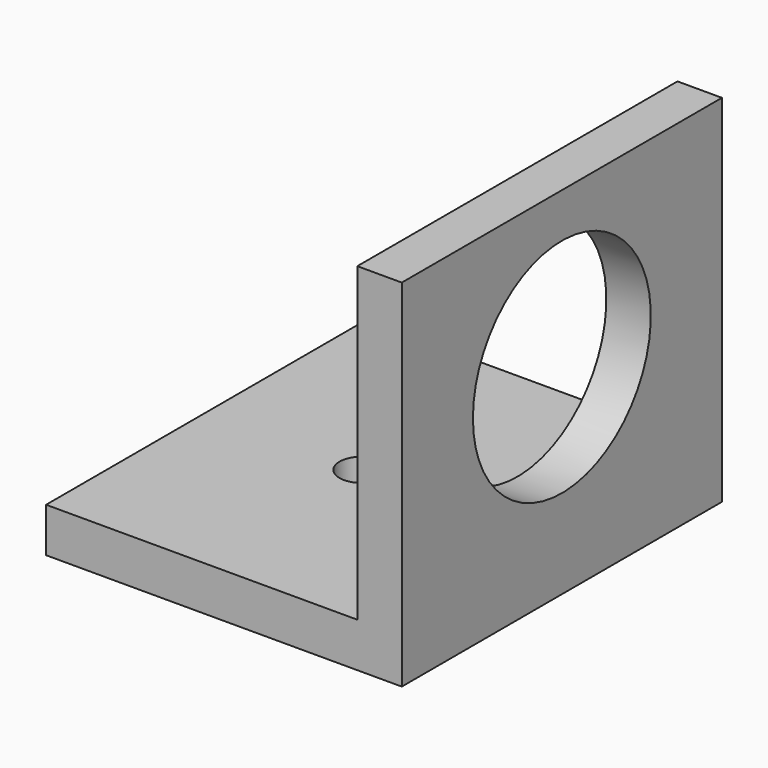
from build123d import *

# Parameters (mm, degrees)
F1_DEPTH = 57.15
F2_R     = 15.875
F3_DEPTH = 6.351
F4_R     = 3.175
F5_DEPTH = 6.351


with BuildPart() as f1:
    # F0 (on Front) → F1 (new body)
    with BuildSketch(Plane.XZ):
        Polygon((0, 6.35), (0, 0), (50.8, 0), (50.8, 50.8), (44.45, 50.8), (44.45, 6.35), align=None)
    extrude(amount=F1_DEPTH)

    # F2 (on face) → F3 (cut, through all)
    with BuildSketch(Plane(origin=(44.45, 0, 0), x_dir=(0, -1, 0), z_dir=(-1, 0, 0))):
        with Locations((28.575, 28.575)):
            Circle(F2_R)
    extrude(amount=-F3_DEPTH, mode=Mode.SUBTRACT)

    # F4 (on face) → F5 (cut, through all)
    with BuildSketch(Plane.XY.offset(6.35)):
        with Locations((22.225, -28.575)):
            Circle(F4_R)
    extrude(amount=-F5_DEPTH, mode=Mode.SUBTRACT)


solid = f1.part
